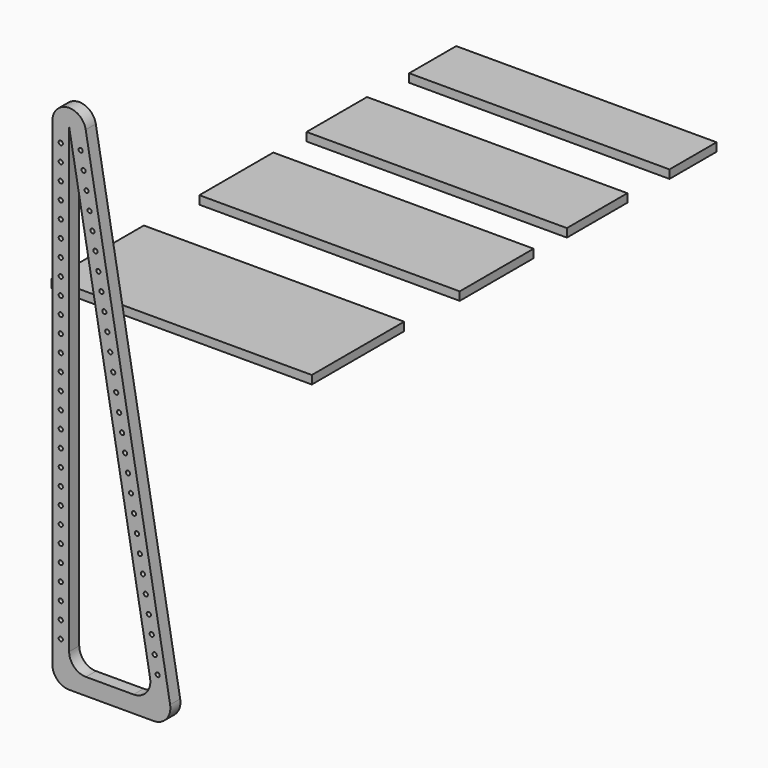
from build123d import *

# Parameters (mm, degrees)
F0_R     = 6.35
F1_DEPTH = 38.1
F2_W     = 787.4
F2_H     = 349.25
F2_H_2   = 279.4
F2_H_3   = 228.6
F2_H_4   = 177.8
F3_DEPTH = 25.4


with BuildPart() as f1:
    # F0 (on Front) → F1 (new body)
    with BuildSketch(Plane.XZ):
        with BuildLine():
            ThreePointArc((-116.790055, 503.19884), (-171.245801, 544.984204), (-217.618289, 494.377513))
            Line((-217.618289, 494.377513), (-217.618289, -953.422487))
            ThreePointArc((-217.618289, -953.422487), (-202.739313, -989.343512), (-166.818289, -1004.222487))
            Line((-166.818289, -1004.222487), (88.467914, -1004.222487))
            ThreePointArc((88.467914, -1004.222487), (127.382972, -986.076098), (138.496148, -944.60116))
            Line((138.496148, -944.60116), (-116.790055, 503.19884))
        make_face()
        with Locations((-192.218289, -877.222487)):
            Circle(F0_R, mode=Mode.SUBTRACT)
        with Locations((-192.218289, -826.422487)):
            Circle(F0_R, mode=Mode.SUBTRACT)
        with Locations((-192.218289, -775.622487)):
            Circle(F0_R, mode=Mode.SUBTRACT)
        with Locations((-192.218289, -724.822487)):
            Circle(F0_R, mode=Mode.SUBTRACT)
        with Locations((-192.218289, -674.022487)):
            Circle(F0_R, mode=Mode.SUBTRACT)
        with Locations((-192.218289, -623.222487)):
            Circle(F0_R, mode=Mode.SUBTRACT)
        with Locations((-192.218289, -572.422487)):
            Circle(F0_R, mode=Mode.SUBTRACT)
        with Locations((-192.218289, -521.622487)):
            Circle(F0_R, mode=Mode.SUBTRACT)
        with Locations((-192.218289, -470.822487)):
            Circle(F0_R, mode=Mode.SUBTRACT)
        with Locations((-192.218289, -420.022487)):
            Circle(F0_R, mode=Mode.SUBTRACT)
        with Locations((-192.218289, -369.222487)):
            Circle(F0_R, mode=Mode.SUBTRACT)
        with Locations((-192.218289, -318.422487)):
            Circle(F0_R, mode=Mode.SUBTRACT)
        with Locations((-192.218289, -267.622487)):
            Circle(F0_R, mode=Mode.SUBTRACT)
        with Locations((91.866223, -826.422487)):
            Circle(F0_R, mode=Mode.SUBTRACT)
        with Locations((100.823634, -877.222487)):
            Circle(F0_R, mode=Mode.SUBTRACT)
        with Locations((82.908813, -775.622487)):
            Circle(F0_R, mode=Mode.SUBTRACT)
        with Locations((73.951402, -724.822487)):
            Circle(F0_R, mode=Mode.SUBTRACT)
        with Locations((64.993991, -674.022487)):
            Circle(F0_R, mode=Mode.SUBTRACT)
        with Locations((56.036581, -623.222487)):
            Circle(F0_R, mode=Mode.SUBTRACT)
        with Locations((47.07917, -572.422487)):
            Circle(F0_R, mode=Mode.SUBTRACT)
        with Locations((38.12176, -521.622487)):
            Circle(F0_R, mode=Mode.SUBTRACT)
        with Locations((29.164349, -470.822487)):
            Circle(F0_R, mode=Mode.SUBTRACT)
        with Locations((2.292117, -318.422487)):
            Circle(F0_R, mode=Mode.SUBTRACT)
        with Locations((-6.665294, -267.622487)):
            Circle(F0_R, mode=Mode.SUBTRACT)
        with Locations((20.206938, -420.022487)):
            Circle(F0_R, mode=Mode.SUBTRACT)
        with Locations((11.249528, -369.222487)):
            Circle(F0_R, mode=Mode.SUBTRACT)
        with Locations((-192.218289, -216.822487)):
            Circle(F0_R, mode=Mode.SUBTRACT)
        with Locations((-192.218289, -166.022487)):
            Circle(F0_R, mode=Mode.SUBTRACT)
        with Locations((-192.218289, -115.222487)):
            Circle(F0_R, mode=Mode.SUBTRACT)
        with Locations((-192.218289, -64.422487)):
            Circle(F0_R, mode=Mode.SUBTRACT)
        with Locations((-192.218289, -13.622487)):
            Circle(F0_R, mode=Mode.SUBTRACT)
        with Locations((-192.218289, 37.177513)):
            Circle(F0_R, mode=Mode.SUBTRACT)
        with Locations((-192.218289, 87.977513)):
            Circle(F0_R, mode=Mode.SUBTRACT)
        with Locations((-192.218289, 138.777513)):
            Circle(F0_R, mode=Mode.SUBTRACT)
        with BuildLine():
            Line((-166.818289, -902.622487), (-166.818289, 494.377513))
            Line((-166.818289, 494.377513), (77.955065, -893.80116))
            ThreePointArc((77.955065, -893.80116), (66.841889, -935.276098), (27.926831, -953.422487))
            Line((27.926831, -953.422487), (-116.018289, -953.422487))
            ThreePointArc((-116.018289, -953.422487), (-151.939313, -938.543512), (-166.818289, -902.622487))
        make_face(mode=Mode.SUBTRACT)
        with Locations((-42.494936, -64.422487)):
            Circle(F0_R, mode=Mode.SUBTRACT)
        with Locations((-51.452347, -13.622487)):
            Circle(F0_R, mode=Mode.SUBTRACT)
        with Locations((-60.409757, 37.177513)):
            Circle(F0_R, mode=Mode.SUBTRACT)
        with Locations((-69.367168, 87.977513)):
            Circle(F0_R, mode=Mode.SUBTRACT)
        with Locations((-78.324578, 138.777513)):
            Circle(F0_R, mode=Mode.SUBTRACT)
        with Locations((-192.218289, 189.577513)):
            Circle(F0_R, mode=Mode.SUBTRACT)
        with Locations((-192.218289, 240.377513)):
            Circle(F0_R, mode=Mode.SUBTRACT)
        with Locations((-192.218289, 291.177513)):
            Circle(F0_R, mode=Mode.SUBTRACT)
        with Locations((-192.218289, 341.977513)):
            Circle(F0_R, mode=Mode.SUBTRACT)
        with Locations((-192.218289, 392.777513)):
            Circle(F0_R, mode=Mode.SUBTRACT)
        with Locations((-192.218289, 443.577513)):
            Circle(F0_R, mode=Mode.SUBTRACT)
        with Locations((-132.069042, 443.577513)):
            Circle(F0_R, mode=Mode.SUBTRACT)
        with Locations((-87.281989, 189.577513)):
            Circle(F0_R, mode=Mode.SUBTRACT)
        with Locations((-96.2394, 240.377513)):
            Circle(F0_R, mode=Mode.SUBTRACT)
        with Locations((-114.154221, 341.977513)):
            Circle(F0_R, mode=Mode.SUBTRACT)
        with Locations((-105.19681, 291.177513)):
            Circle(F0_R, mode=Mode.SUBTRACT)
        with Locations((-123.111632, 392.777513)):
            Circle(F0_R, mode=Mode.SUBTRACT)
        with Locations((-24.580115, -166.022487)):
            Circle(F0_R, mode=Mode.SUBTRACT)
        with Locations((-15.622704, -216.822487)):
            Circle(F0_R, mode=Mode.SUBTRACT)
        with Locations((-33.537525, -115.222487)):
            Circle(F0_R, mode=Mode.SUBTRACT)
    extrude(amount=F1_DEPTH)


with BuildPart() as f3:
    # F2 (on Top) → F3 (new body)
    with BuildSketch(Plane.XY):
        with Locations((116.719497, 207.300253)):
            Rectangle(F2_W, F2_H)
        with Locations((122.259405, 724.610095)):
            Rectangle(F2_W, F2_H_2)
        with Locations((117.794748, 1109.958815)):
            Rectangle(F2_W, F2_H_3)
        with Locations((119.515732, 1470.345301)):
            Rectangle(F2_W, F2_H_4)
    extrude(amount=F3_DEPTH)


solid = Compound([f1.part, f3.part])
